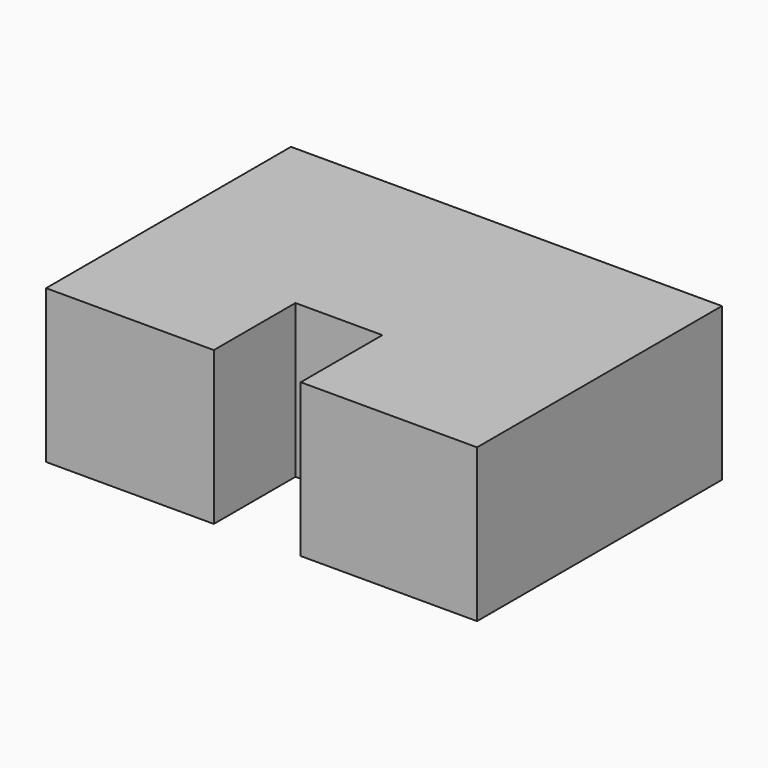
from build123d import *

# Parameters (mm, degrees)
F0_W     = 40.843203
F0_H     = 38.1
F0_W_2   = 25.603201
F0_W_3   = 40.843199
F1_DEPTH = 76.2
F2_W     = 21.640803
F2_H     = 38.1
F3_DEPTH = 25.4


with BuildPart() as f1:
    # F0 (on Front) → F1 (new body)
    with BuildSketch(Plane.XZ):
        with Locations((-56.083202, -36.576001)):
            Rectangle(F0_W, F0_H)
        with Locations((-22.86, -36.576001)):
            Rectangle(F0_W_2, F0_H)
        with Locations((10.3632, -36.576001)):
            Rectangle(F0_W_3, F0_H)
    extrude(amount=F1_DEPTH)

    # F2 (on face) → F3 (cut)
    with BuildSketch(Plane.XZ.offset(76.2)):
        with Locations((-23.9268, -36.576001)):
            Rectangle(F2_W, F2_H)
    extrude(amount=-F3_DEPTH, mode=Mode.SUBTRACT)


solid = f1.part
